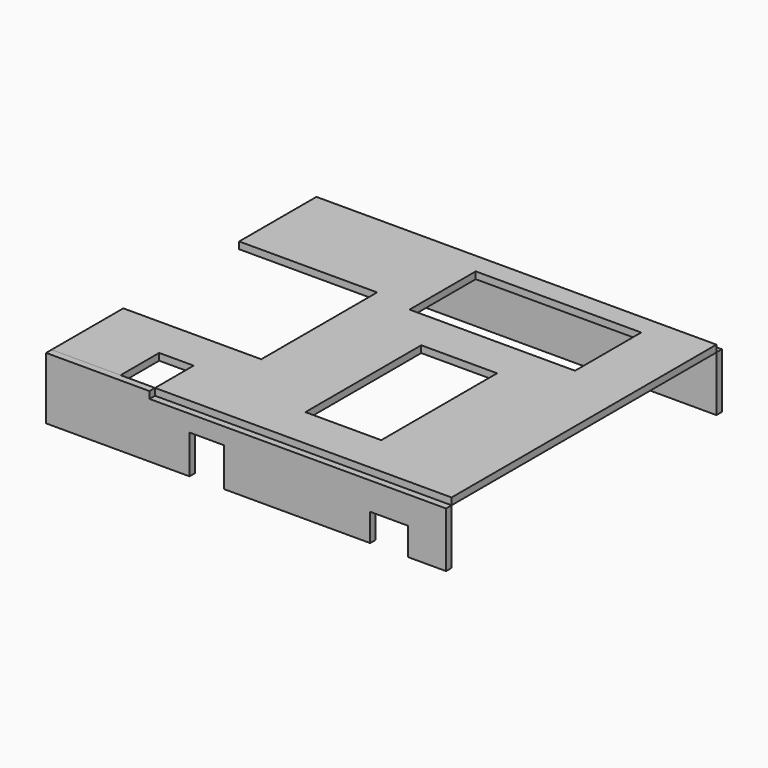
from build123d import *

# Parameters (mm, degrees)
F0_W     = 69.85
F0_H     = 133.35
F0_W_2   = 152.4
F0_H_2   = 76.2
F1_DEPTH = 6.35
F2_W     = 368.3
F2_H     = 50.8
F3_DEPTH = 6.35
F5_DEPTH = 6.35


with BuildPart() as f1:
    # F0 (on Top) → F1 (new body)
    with BuildSketch(Plane.XY):
        Polygon((273.05, 19.05), (-95.25, 19.05), (-95.25, -69.85), (31.75, -69.85), (31.75, -203.2), (-95.25, -203.2), (-95.25, -285.75), (-31.75, -285.75), (-31.75, -241.3), (0, -241.3), (0, -285.75), (273.05, -285.75), align=None)
        with Locations((142.875, -180.975)):
            Rectangle(F0_W, F0_H, mode=Mode.SUBTRACT)
        with Locations((142.875, -38.1)):
            Rectangle(F0_W_2, F0_H_2, mode=Mode.SUBTRACT)
    extrude(amount=F1_DEPTH)


with BuildPart() as f3:
    # F2 (on face) → F3 (new body)
    with BuildSketch(Plane(origin=(0, 19.05, 0), x_dir=(-1, 0, 0), z_dir=(0, 1, 0))):
        with Locations((-88.9, -25.4)):
            Rectangle(F2_W, F2_H)
    extrude(amount=F3_DEPTH)


with BuildPart() as f5:
    # F4 (on face) → F5 (new body)
    with BuildSketch(Plane.XZ.offset(285.75)):
        Polygon((0, 0), (0, 6.35), (-95.25, 6.35), (-95.25, -50.8), (36.83, -50.8), (36.83, -15.24), (68.58, -15.24), (68.58, -50.8), (203.2, -50.8), (203.2, -25.4), (238.125, -25.4), (238.125, -50.8), (273.05, -50.8), (273.05, 0), align=None)
    extrude(amount=F5_DEPTH)


solid = Compound([f1.part, f3.part, f5.part])
